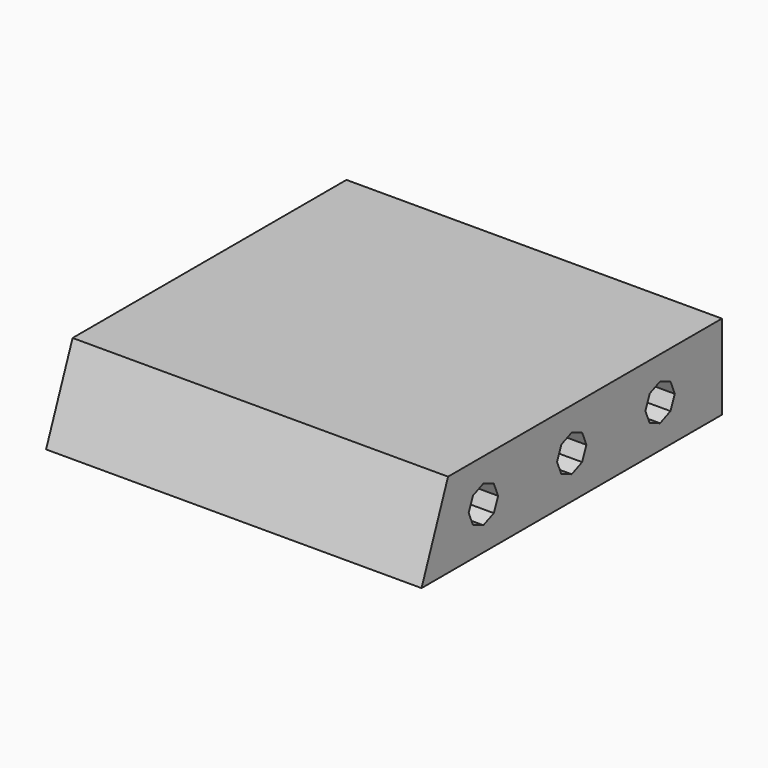
from build123d import *

# Parameters (mm, degrees)
F1_DEPTH = 51
F3_DEPTH = 10
F5_DEPTH = 10


with BuildPart() as f1:
    # F0 (on Right) → F1 (new body, symmetric)
    with BuildSketch(Plane.YZ):
        Polygon((-51, -11.5), (51, -11.5), (51, 11.5), (-42, 11.5), align=None)
    extrude(amount=F1_DEPTH, both=True)

    # F2 (on face) → F3 (cut)
    with BuildSketch(Plane.YZ.offset(51)):
        Polygon((-3.535534, -3.535534), (0, -5), (3.535534, -3.535534), (5, 0), (3.535534, 3.535534), (0, 5), (-3.535534, 3.535534), (-5, 0), align=None)
        Polygon((33.535534, 3.535534), (30, 5), (26.464466, 3.535534), (25, 0), (26.464466, -3.535534), (30, -5), (33.535534, -3.535534), (35, 0), align=None)
        Polygon((-25, 0), (-26.464466, 3.535534), (-30, 5), (-33.535534, 3.535534), (-35, 0), (-33.535534, -3.535534), (-30, -5), (-26.464466, -3.535534), align=None)
    extrude(amount=-F3_DEPTH, mode=Mode.SUBTRACT)

    # F4 (on face) → F5 (cut)
    with BuildSketch(Plane(origin=(0, 51, 0), x_dir=(-1, 0, 0), z_dir=(0, 1, 0))):
        Polygon((-3.535534, -3.535534), (0, -5), (3.535534, -3.535534), (5, 0), (3.535534, 3.535534), (0, 5), (-3.535534, 3.535534), (-5, 0), align=None)
        Polygon((33.535534, 3.535534), (30, 5), (26.464466, 3.535534), (25, 0), (26.464466, -3.535534), (30, -5), (33.535534, -3.535534), (35, 0), align=None)
        Polygon((-26.464466, -3.535534), (-25, 0), (-26.464466, 3.535534), (-30, 5), (-33.535534, 3.535534), (-35, 0), (-33.535534, -3.535534), (-30, -5), align=None)
    extrude(amount=-F5_DEPTH, mode=Mode.SUBTRACT)


solid = f1.part
